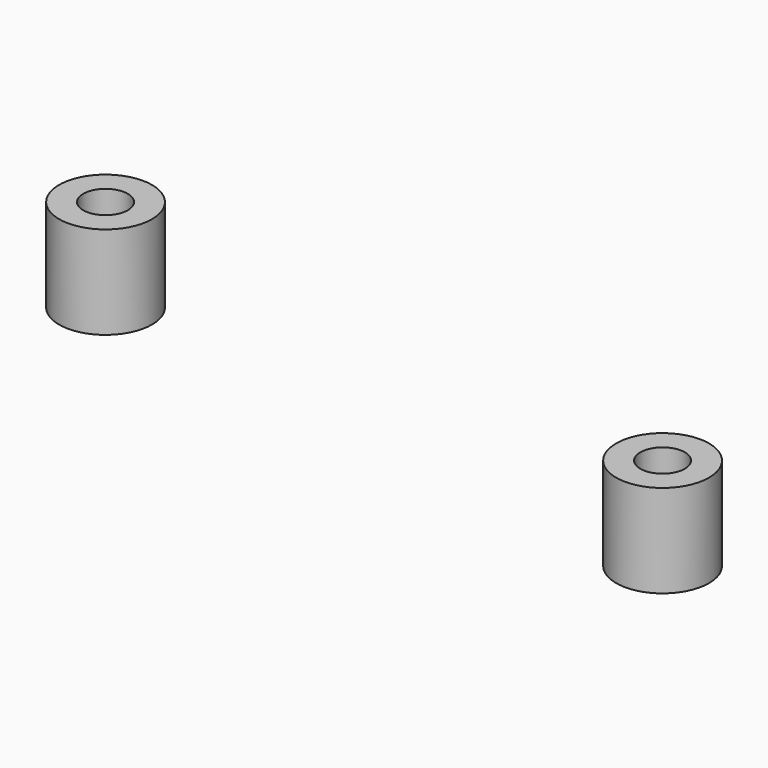
from build123d import *

# Parameters (mm, degrees)
F0_R     = 12.5
F0_R_2   = 6
F1_DEPTH = 25
F2_DEPTH = 12.5


with BuildPart() as f1:
    # F0 (on Top) → F1 (new body)
    with BuildSketch(Plane.XY):
        Circle(F0_R)
        Circle(F0_R_2, mode=Mode.SUBTRACT)
    extrude(amount=F1_DEPTH)


with BuildPart() as f2:
    # F0 (on Top) → F2 (new body, symmetric)
    with BuildSketch(Plane.XY):
        with Locations((150, 0)):
            Circle(F0_R)
        with Locations((150, 0)):
            Circle(F0_R_2, mode=Mode.SUBTRACT)
    extrude(amount=F2_DEPTH, both=True)


solid = Compound([f1.part, f2.part])
